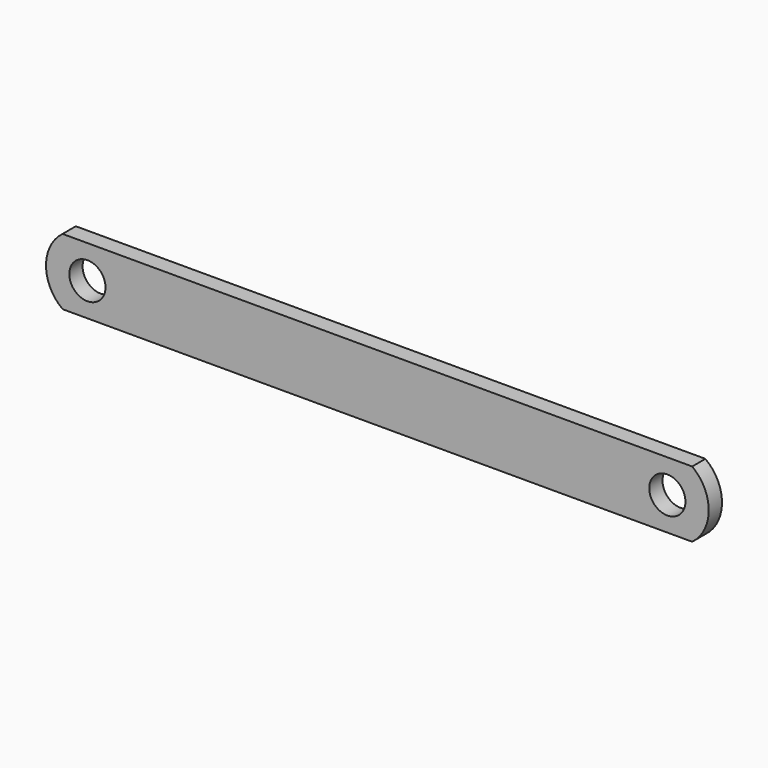
from build123d import *

# Parameters (mm, degrees)
F0_R     = 10.920705
F1_DEPTH = 10


with BuildPart() as f1:
    # F0 (on Front) → F1 (new body)
    with BuildSketch(Plane.XZ):
        with BuildLine():
            Line((5.988672, 30.654801), (-184.011328, 30.654801))
            ThreePointArc((-184.011328, 30.654801), (-194.011328, 10.654801), (-184.011328, -9.345199))
            Line((-184.011328, -9.345199), (5.988672, -9.345199))
            Line((5.988672, -9.345199), (5.988672, 30.654801))
        make_face()
        with Locations((-169.011328, 10.654801)):
            Circle(F0_R, mode=Mode.SUBTRACT)
        with BuildLine():
            Line((195.988672, 30.654801), (5.988672, 30.654801))
            Line((5.988672, 30.654801), (5.988672, -9.345199))
            Line((5.988672, -9.345199), (195.988672, -9.345199))
            ThreePointArc((195.988672, -9.345199), (205.988672, 10.654801), (195.988672, 30.654801))
        make_face()
        with Locations((180.988672, 10.654801)):
            Circle(F0_R, mode=Mode.SUBTRACT)
    extrude(amount=F1_DEPTH)


solid = f1.part
